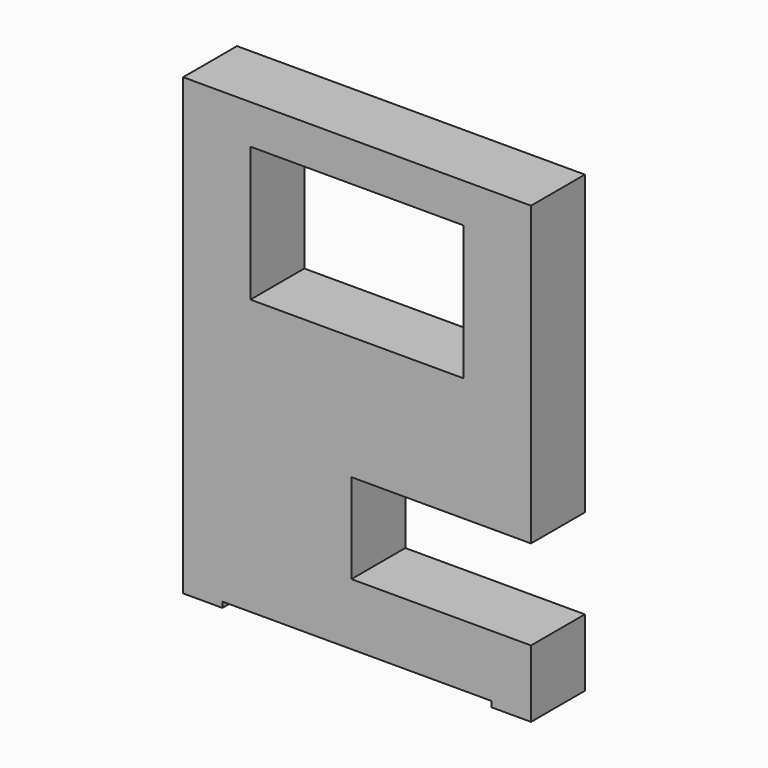
from build123d import *

# Parameters (mm, degrees)
F1_DEPTH = 38.1
F2_W     = 120.65
F2_H     = 76.2
F3_DEPTH = 38.101


with BuildPart() as f1:
    # F0 (on Front) → F1 (new body)
    with BuildSketch(Plane.XZ):
        Polygon((98.425, 128.5875), (-98.425, 128.5875), (-98.425, -128.5875), (-76.2, -128.5875), (-76.2, -125.4125), (76.2, -125.4125), (76.2, -128.5875), (98.425, -128.5875), (98.425, -90.4875), (-3.175, -90.4875), (-3.175, -39.6875), (98.425, -39.6875), align=None)
    extrude(amount=F1_DEPTH)

    # F2 (on face) → F3 (cut, through all)
    with BuildSketch(Plane.XZ.offset(38.1)):
        with Locations((0, 68.2625)):
            Rectangle(F2_W, F2_H)
    extrude(amount=-F3_DEPTH, mode=Mode.SUBTRACT)


solid = f1.part
